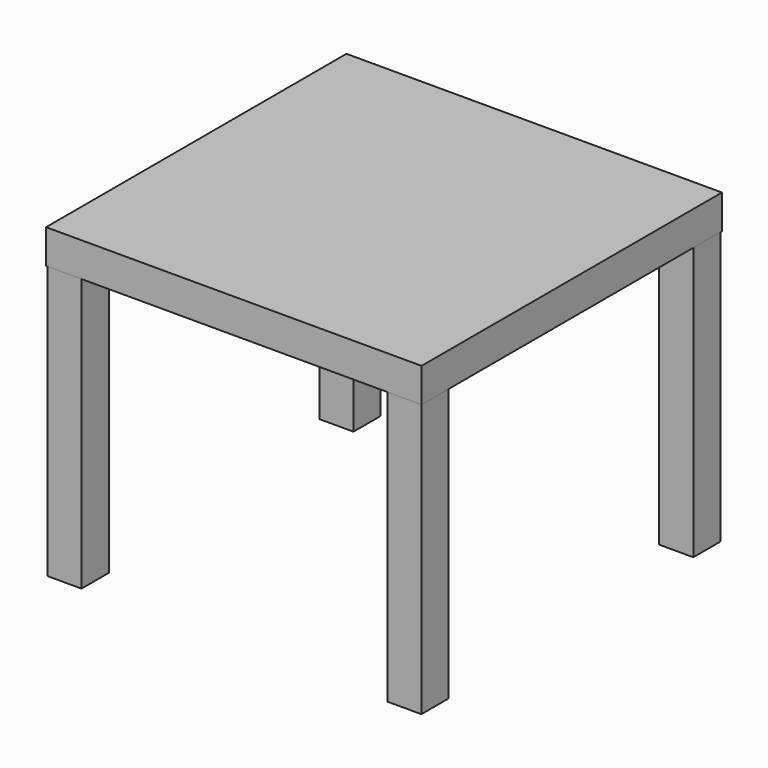
from build123d import *

# Parameters (mm, degrees)
F0_W     = 550
F0_H     = 550
F0_W_2   = 50
F0_H_2   = 50
F1_DEPTH = 50
F2_DEPTH = 400


with BuildPart() as f1:
    # F0 (on Top) → F1 (new body)
    with BuildSketch(Plane.XY):
        Rectangle(F0_W, F0_H)
        with Locations((-248.93934, -248.93934)):
            Rectangle(F0_W_2, F0_H_2, mode=Mode.SUBTRACT)
        with Locations((248.93934, -248.93934)):
            Rectangle(F0_W_2, F0_H_2, mode=Mode.SUBTRACT)
        with Locations((-248.93934, 248.93934)):
            Rectangle(F0_W_2, F0_H_2, mode=Mode.SUBTRACT)
        with Locations((248.93934, 248.93934)):
            Rectangle(F0_W_2, F0_H_2, mode=Mode.SUBTRACT)
        with Locations((-248.93934, 248.93934)):
            Rectangle(F0_W_2, F0_H_2)
        with Locations((-248.93934, -248.93934)):
            Rectangle(F0_W_2, F0_H_2)
        with Locations((248.93934, -248.93934)):
            Rectangle(F0_W_2, F0_H_2)
        with Locations((248.93934, 248.93934)):
            Rectangle(F0_W_2, F0_H_2)
    extrude(amount=F1_DEPTH)

    # F0 (on Top) → F2 (join)
    with BuildSketch(Plane.XY):
        with Locations((-248.93934, -248.93934)):
            Rectangle(F0_W_2, F0_H_2)
        with Locations((248.93934, -248.93934)):
            Rectangle(F0_W_2, F0_H_2)
        with Locations((248.93934, 248.93934)):
            Rectangle(F0_W_2, F0_H_2)
        with Locations((-248.93934, 248.93934)):
            Rectangle(F0_W_2, F0_H_2)
    extrude(amount=-F2_DEPTH)


solid = f1.part
